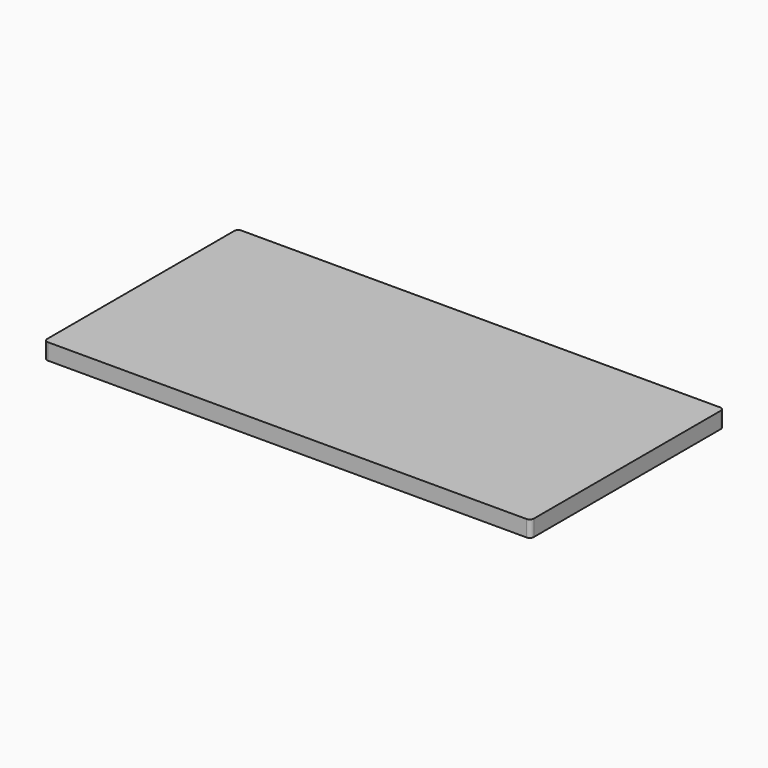
from build123d import *

# Parameters (mm, degrees)
F1_DEPTH = 20


with BuildPart() as f1:
    # F0 (on Top) → F1 (new body)
    with BuildSketch(Plane.XY):
        with BuildLine():
            Line((0, -144.750819), (0, 153.36287))
            Line((0, 153.36287), (-294.884111, 153.36287))
            ThreePointArc((-294.884111, 153.36287), (-298.419645, 151.898404), (-299.884111, 148.36287))
            Line((-299.884111, 148.36287), (-299.884111, -139.750819))
            ThreePointArc((-299.884111, -139.750819), (-298.419645, -143.286353), (-294.884111, -144.750819))
            Line((-294.884111, -144.750819), (0, -144.750819))
        make_face()
    extrude(amount=F1_DEPTH)

    # F2: F1 across face


with BuildPart() as f1_1:
    add(f1.part)
    add(f1.part.mirror(Plane(origin=(0, 4.306026, 10), x_dir=(0, 1, 0), z_dir=(1, 0, 0))))


solid = f1_1.part
